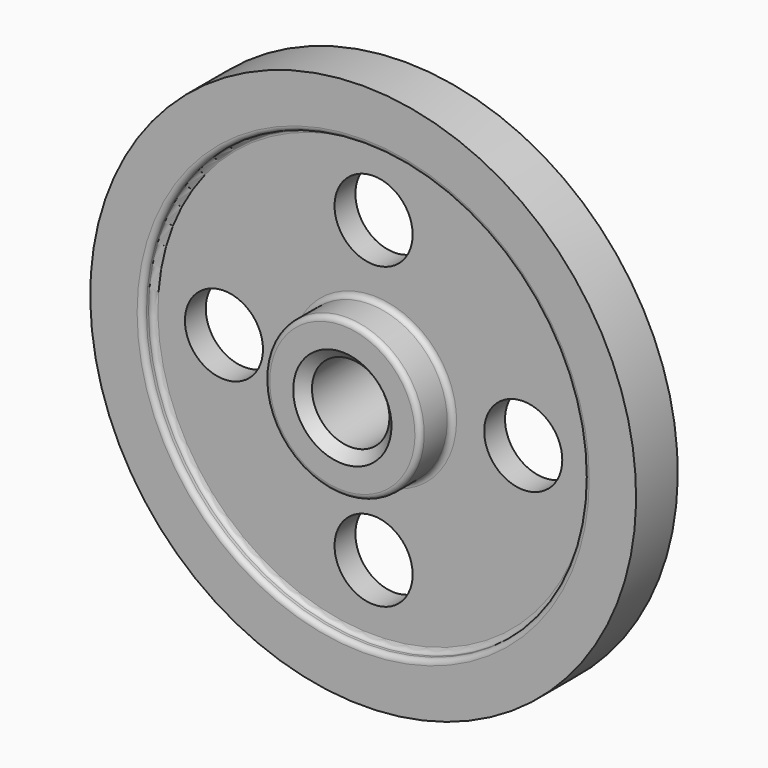
from build123d import *

# Parameters (mm, degrees)
F2_R     = 19.05
F3_DEPTH = 25.4
F4_R     = 2.54
F5_R     = 2.54
F6_SIZE  = 1.5875
F7_SIZE  = 5.08


with BuildPart() as f1:
    # F0 (on Right) → F1 (revolve)
    with BuildSketch(Plane.YZ):
        Polygon((-25.4, 19.05), (0, 19.05), (25.4, 19.05), (25.4, 38.1), (6.35, 38.1), (6.35, 107.95), (12.7, 107.95), (12.7, 133.35), (0, 133.35), (-12.7, 133.35), (-12.7, 107.95), (-6.35, 107.95), (-6.35, 38.1), (-25.4, 38.1), align=None)
    revolve(axis=Axis((0, 37.338, 0.1523999963), (0, 1, 0)))

    # F2 (on face) → F3 (cut)
    with BuildSketch(Plane.XZ.offset(12.7)):
        with Locations((73.025, 0)):
            Circle(F2_R)
        with BuildLine():
            ThreePointArc((0, 53.975), (13.4703841816, 59.5546158184), (19.05, 73.025))
            ThreePointArc((19.05, 73.025), (-13.4703841816, 86.4953841816), (0, 53.975))
        make_face()
        with Locations((-73.025, 0)):
            Circle(F2_R)
        with Locations((0, -73.025)):
            Circle(F2_R)
    extrude(amount=-F3_DEPTH, mode=Mode.SUBTRACT)

    # F4
    f4_edges = [f1.edges().sort_by_distance(p)[0] for p in [
        (0, 12.7, -107.6452),
        (0, 25.4, -37.7952),
        (0, 6.35, -37.7952),
    ]]
    fillet(f4_edges, radius=F4_R)

    # F5
    f5_edges = [f1.edges().sort_by_distance(p)[0] for p in [
        (0, -25.4, -37.7952),
        (0, -6.35, -37.7952),
        (0, -12.7, -107.6452),
        (0, -6.35, -107.6452),
    ]]
    fillet(f5_edges, radius=F5_R)

    # F6
    f6_edges = [f1.edges().sort_by_distance(p)[0] for p in [
        (0, 25.4, -18.7452),
    ]]
    chamfer(f6_edges, length=F6_SIZE)

    # F7
    f7_edges = [f1.edges().sort_by_distance(p)[0] for p in [
        (0, -25.4, -18.7452),
    ]]
    chamfer(f7_edges, length=F7_SIZE)


solid = f1.part
